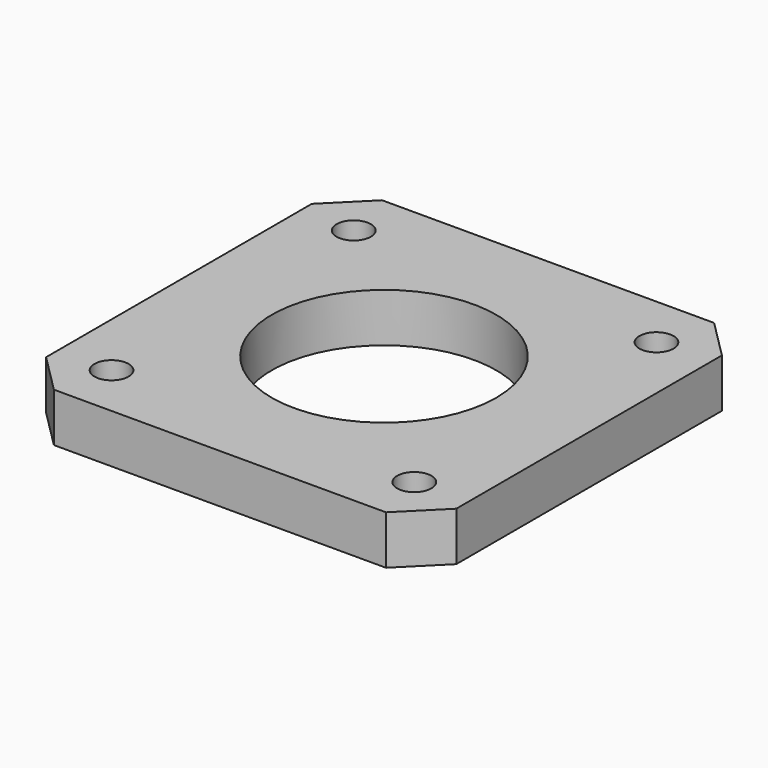
from build123d import *

# Parameters (mm, degrees)
SKETCH_W        = 42
SKETCH_H        = 42
PAD_DEPTH       = 5
SKETCH001_R     = 11.5
POCKET_DEPTH    = 12
SKETCH002_R     = 1.75
POCKET001_DEPTH = 12
CHAMFER_SIZE    = 4


with BuildPart() as part:
    # Sketch → Pad (new body)
    with BuildSketch(Plane.XY):
        Rectangle(SKETCH_W, SKETCH_H)
    extrude(amount=PAD_DEPTH)

    # Sketch001 (on Face6 of Pad) → Pocket (cut)
    with BuildSketch(Plane.XY.offset(5)):
        Circle(SKETCH001_R)
    extrude(amount=-POCKET_DEPTH, mode=Mode.SUBTRACT)

    # Sketch002 (on Face5 of Pocket) → Pocket001 (cut)
    with BuildSketch(Plane.XY.offset(5)):
        with Locations((15.5, 15.5)):
            Circle(SKETCH002_R)
        with Locations((-15.5, 15.5)):
            Circle(SKETCH002_R)
        with Locations((-15.5, -15.5)):
            Circle(SKETCH002_R)
        with Locations((15.5, -15.5)):
            Circle(SKETCH002_R)
    extrude(amount=-POCKET001_DEPTH, mode=Mode.SUBTRACT)

    # Chamfer
    chamfer_edges = [part.edges().sort_by_distance(p)[0] for p in [
        (21, 21, 2.5),
        (-21, 21, 2.5),
        (-21, -21, 2.5),
        (21, -21, 2.5),
    ]]
    chamfer(chamfer_edges, length=CHAMFER_SIZE)


solid = part.part
